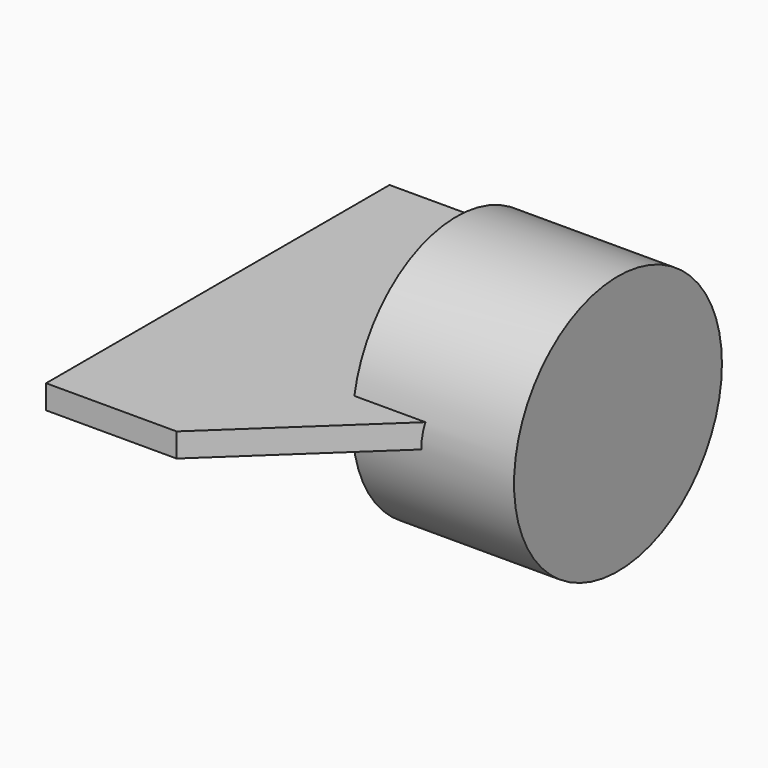
from build123d import *

# Parameters (mm, degrees)
F0_W     = 168.927521
F0_H     = 135.896556
F3_DEPTH = 25


with BuildPart() as f2:
    # F0 (on Top) → F2 (revolve)
    with BuildSketch(Plane.XY):
        with Locations((158.588707, 128.150675)):
            Rectangle(F0_W, F0_H)
    revolve(axis=Axis((158.588707, 60.202397, 0), (1, 0, 0)))

    # F1 (on Top) → F3 (join)
    with BuildSketch(Plane.XY):
        Polygon((0, 235.938281), (-136.531189, 235.938281), (-136.531189, -213.123232), (0, -213.123232), (226.407066, 0), align=None)
    extrude(amount=F3_DEPTH)


solid = f2.part
